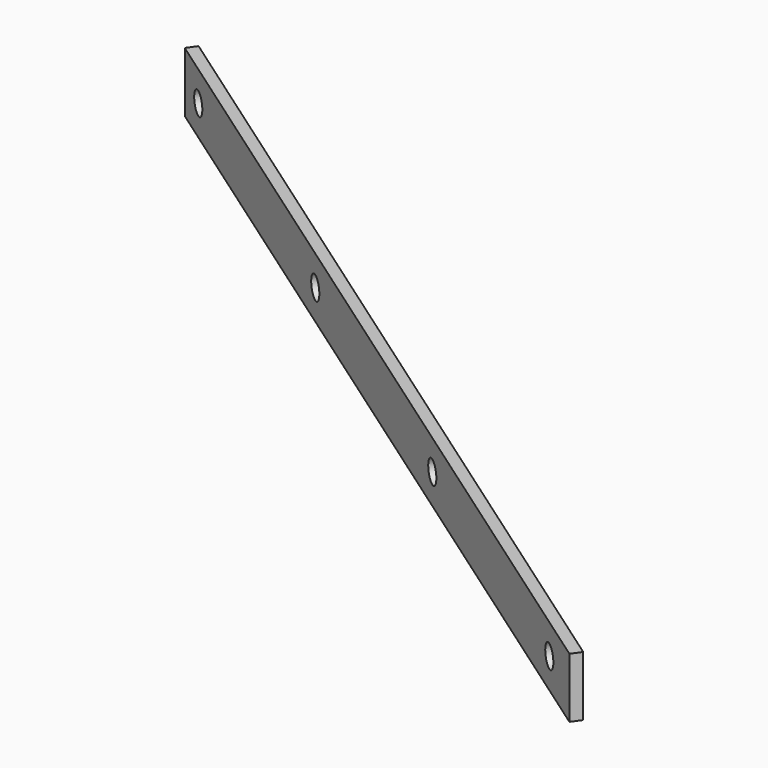
from build123d import *

# Parameters (mm, degrees)
PAD006_DEPTH           = 32
SKETCH040_R            = 6
POCKET004_DEPTH        = 273.736822
LINEARPATTERN002_COUNT = 4
LINEARPATTERN002_PITCH = 173.333333


with BuildPart() as part:
    # Sketch039 → Pad006 (new body)
    with BuildSketch(Plane.XY):
        Polygon((-456.521681, 341.5), (10.26148, 14.654912), (6.820021, 9.74), (-459.963139, 336.585088), align=None)
    extrude(amount=PAD006_DEPTH)

    # Sketch040 (on Face3 of Pad006) → Pocket004 (cut, through all)
    with BuildSketch(Plane(origin=(6.820021, 9.74, 0), x_dir=(0.819152, -0.573576, 0), z_dir=(-0.573576, -0.819152, 0))):
        with Locations((-549.837021, 16)):
            Circle(SKETCH040_R)
    pocket004 = extrude(amount=-POCKET004_DEPTH, mode=Mode.SUBTRACT)

    # LinearPattern002: Pocket004 ×4
    with Locations(*[Vector(0.819152, -0.573576, 0) * (i * LINEARPATTERN002_PITCH) for i in range(1, LINEARPATTERN002_COUNT)]):
        add(pocket004, mode=Mode.SUBTRACT)


with BuildPart() as part_1:
    # Body005 placement: moved
    add(part.part.moved(Location((0, 0, 9))))


solid = part_1.part
